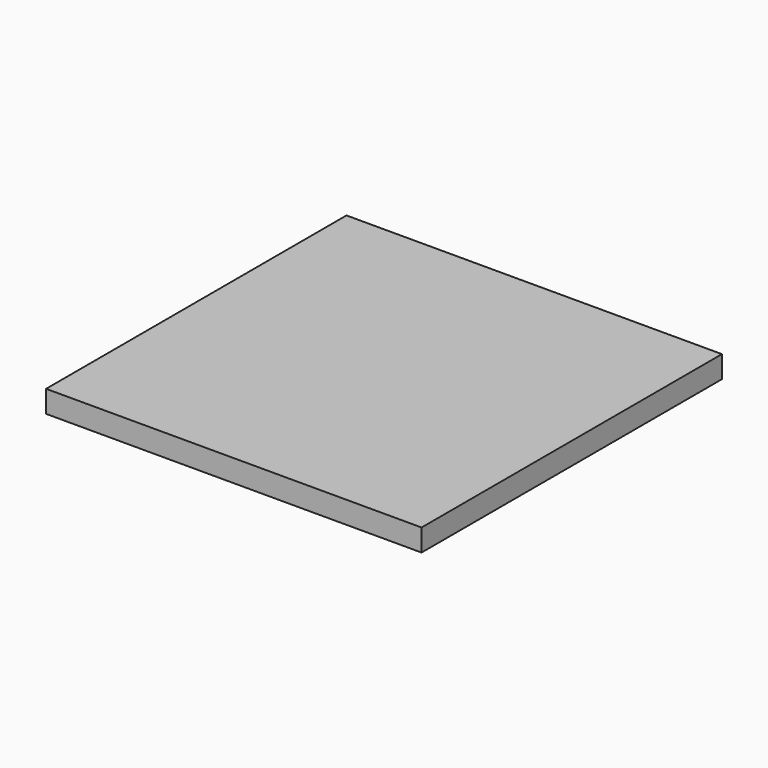
from build123d import *

# Parameters (mm, degrees)
SKETCH_W  = 51
SKETCH_H  = 51
PAD_DEPTH = 3


with BuildPart() as part:
    # Sketch → Pad (new body)
    with BuildSketch(Plane.XY):
        with Locations((25.5, 25.5)):
            Rectangle(SKETCH_W, SKETCH_H)
    extrude(amount=PAD_DEPTH)


solid = part.part
